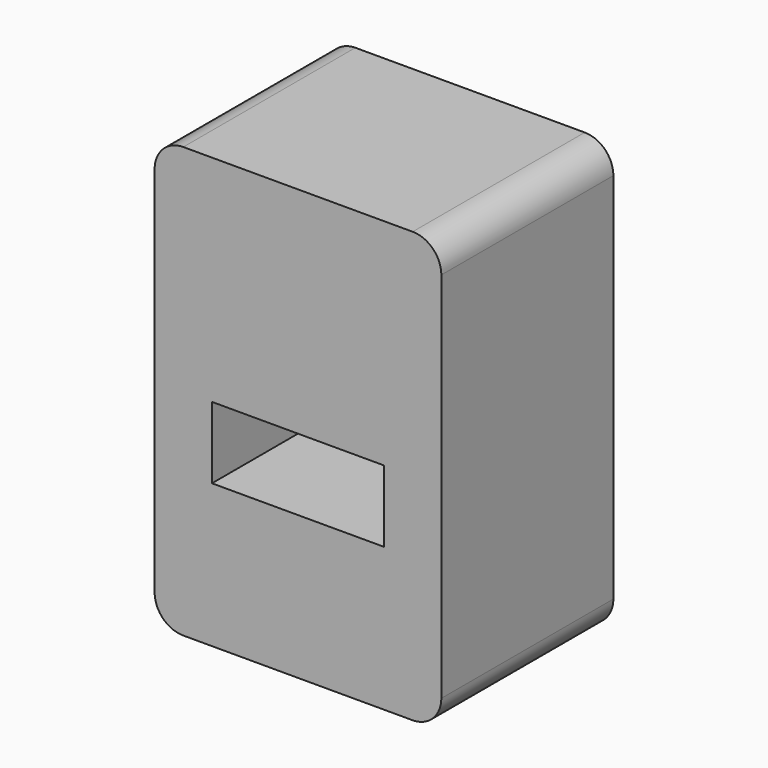
from build123d import *

# Parameters (mm, degrees)
F0_W     = 1200
F0_H     = 500
F1_DEPTH = 1500


with BuildPart() as f1:
    # F0 (on Front) → F1 (new body)
    with BuildSketch(Plane.XZ):
        with BuildLine():
            Line((800, 0), (-800, 0))
            ThreePointArc((-800, 0), (-941.421356, -58.578644), (-1000, -200))
            Line((-1000, -200), (-1000, -2800))
            ThreePointArc((-1000, -2800), (-941.421356, -2941.421356), (-800, -3000))
            Line((-800, -3000), (800, -3000))
            ThreePointArc((800, -3000), (941.421356, -2941.421356), (1000, -2800))
            Line((1000, -2800), (1000, -200))
            ThreePointArc((1000, -200), (941.421356, -58.578644), (800, 0))
        make_face()
        with Locations((0, -1750)):
            Rectangle(F0_W, F0_H, mode=Mode.SUBTRACT)
    extrude(amount=F1_DEPTH)


solid = f1.part
